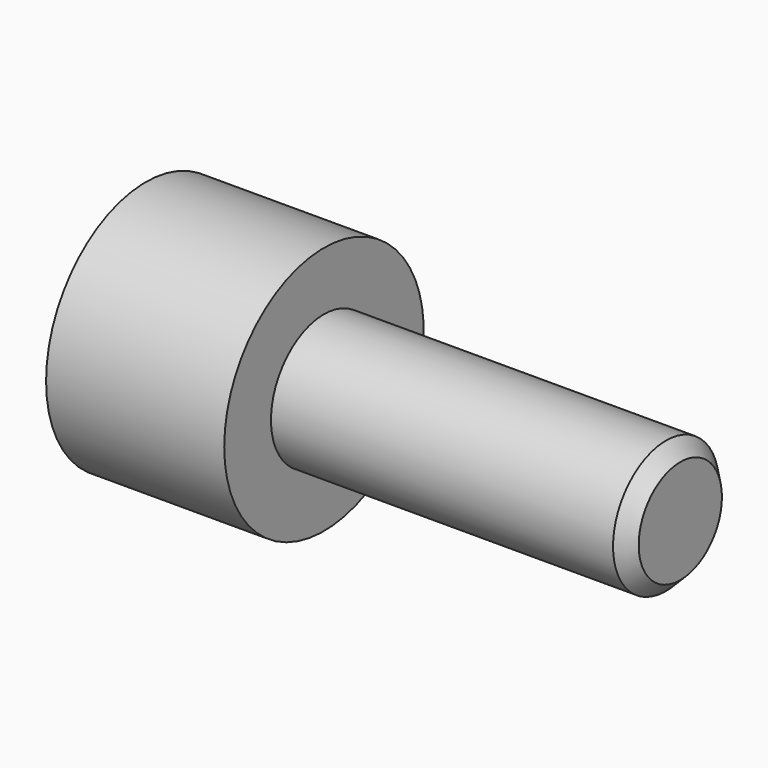
from build123d import *

# Parameters (mm, degrees)
F0_R     = 2.3622
F1_DEPTH = 9.525
F2_R     = 4.445
F2_R_2   = 2.3622
F3_DEPTH = 6.35
F4_SIZE  = 0.508


with BuildPart() as f1:
    # F0 (on Right) → F1 (new body, symmetric)
    with BuildSketch(Plane.YZ):
        Circle(F0_R)
    extrude(amount=F1_DEPTH, both=True)

    # F2 (on face) → F3 (join)
    with BuildSketch(Plane(origin=(-9.525, 0, 0), x_dir=(0, -1, 0), z_dir=(-1, 0, 0))):
        Circle(F2_R)
        Circle(F2_R_2, mode=Mode.SUBTRACT)
    extrude(amount=-F3_DEPTH)

    # F4
    f4_edges = [f1.edges().sort_by_distance(p)[0] for p in [
        (9.525, -2.3622, 0),
    ]]
    chamfer(f4_edges, length=F4_SIZE)


solid = f1.part
